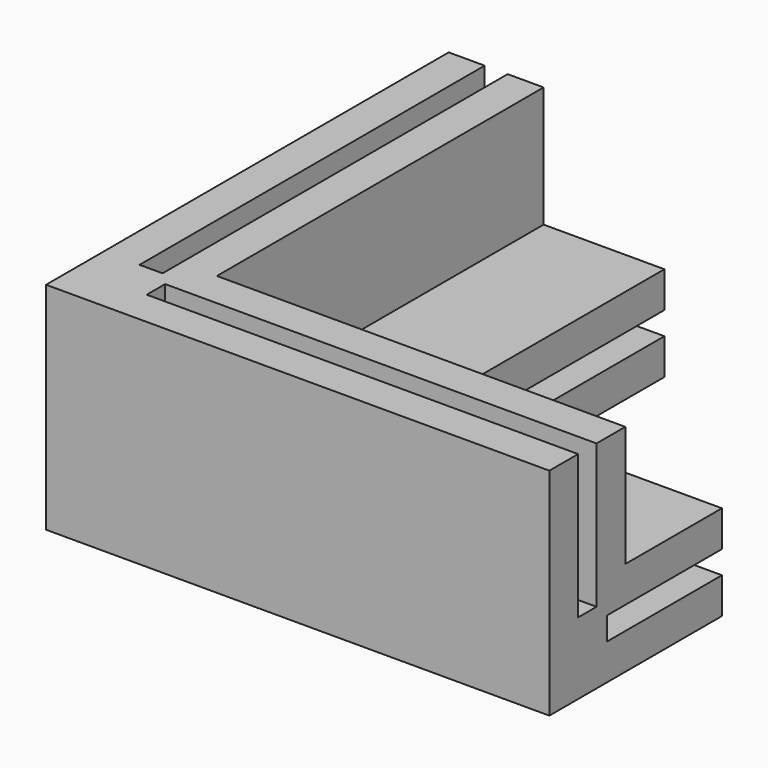
from build123d import *

# Parameters (mm, degrees)
PAD_DEPTH    = 5
PAD001_DEPTH = 3.2
PAD002_DEPTH = 5
POCKET_DEPTH = 3.2
PAD003_DEPTH = 16.8
PAD004_DEPTH = 16.8
SKETCH006_W  = 10
SKETCH006_H  = 10
PAD005_DEPTH = 20


with BuildPart() as part:
    # Sketch → Pad (new body)
    with BuildSketch(Plane.XY):
        Polygon((0, 0), (70, 0), (70, 30), (30, 30), (30, 70), (0, 70), align=None)
    extrude(amount=PAD_DEPTH)

    # Sketch001 (on DatumPlane) → Pad001 (join)
    with BuildSketch(Plane.XY.offset(5)):
        Polygon((0, 0), (70, 0), (70, 10), (10, 10), (10, 70), (0, 70), align=None)
    extrude(amount=PAD001_DEPTH)

    # Sketch002 (on DatumPlane) → Pad002 (join)
    with BuildSketch(Plane.XY.offset(8.2)):
        Polygon((0, 0), (70, 0), (70, 30), (30, 30), (30, 70), (0, 70), align=None)
    extrude(amount=PAD002_DEPTH)

    # Sketch003 (on DatumPlane) → Pocket (cut)
    with BuildSketch(Plane.XY.offset(13.2)):
        Polygon((5, 70), (5, 5), (70, 5), (70, 8.2), (8.2, 8.2), (8.2, 70), align=None)
    extrude(amount=-POCKET_DEPTH, mode=Mode.SUBTRACT)

    # Sketch004 (on DatumPlane) → Pad003 (join)
    with BuildSketch(Plane.XY.offset(13.2)):
        Polygon((0, 0), (0, 70), (5, 70), (5, 5), (70, 5), (70, 0), align=None)
    extrude(amount=PAD003_DEPTH)

    # Sketch005 (on DatumPlane) → Pad004 (join)
    with BuildSketch(Plane.XY.offset(13.2)):
        Polygon((70, 8.2), (70, 13.2), (13.2, 13.2), (13.2, 70), (8.2, 70), (8.2, 8.2), align=None)
    extrude(amount=PAD004_DEPTH)

    # Sketch006 (on DatumPlane) → Pad005 (join)
    with BuildSketch(Plane.XY.offset(10)):
        with Locations((5, 5)):
            Rectangle(SKETCH006_W, SKETCH006_H)
    extrude(amount=PAD005_DEPTH)


solid = part.part
